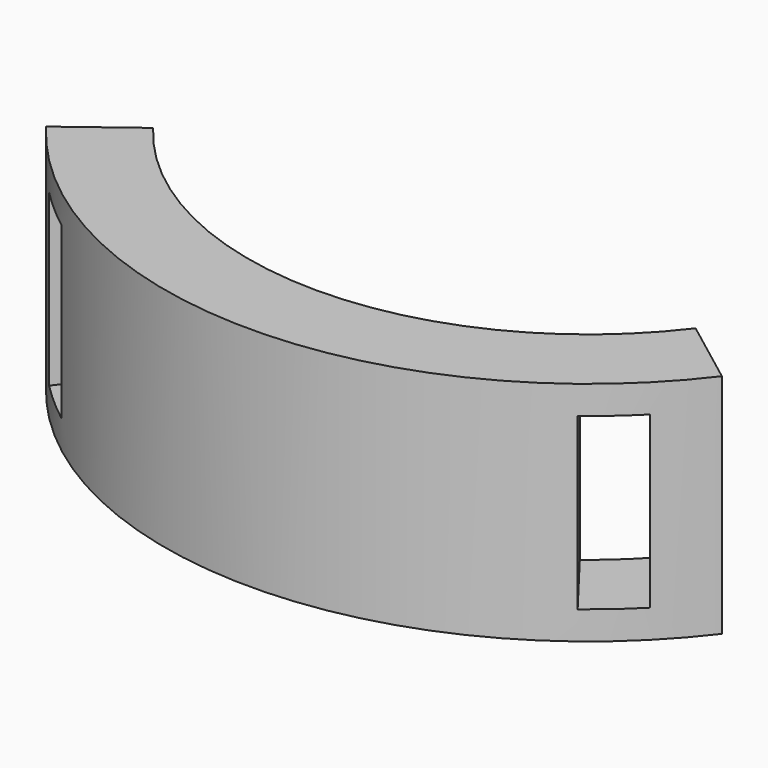
from build123d import *

# Parameters (mm, degrees)
PAD001_DEPTH = 3
SKETCH004_R  = 10.5
POCKET_DEPTH = 5
PAD_DEPTH    = 4


with BuildPart() as body001:
    # Sketch001 → Pad001 (new body, symmetric)
    with BuildSketch(Plane.XY):
        with BuildLine():
            ThreePointArc((8.786596, -8.172865), (11.974307, -0.784838), (9.778199, 6.956064))
            Line((11.923388, 9.101253), (9.778199, 6.956064))
            Line((10.606602, 10.606602), (11.923388, 9.101253))
            Line((8.485281, 8.485281), (10.606602, 10.606602))
            ThreePointArc((8.485281, 8.485281), (0, 12), (-8.485281, 8.485281))
            Line((-8.485281, 8.485281), (-10.606602, 10.606602))
            Line((-10.606602, 10.606602), (-11.923388, 9.101253))
            Line((-11.923388, 9.101253), (-9.778199, 6.956064))
            ThreePointArc((-9.778199, 6.956064), (-11.974307, -0.784838), (-8.786596, -8.172865))
            Line((-8.786596, -8.172865), (-10.63343, -10.579705))
            Line((-10.63343, -10.579705), (-9.131421, -11.9003))
            Line((0, 0), (-9.131421, -11.9003))
            Line((0, 0), (9.131421, -11.9003))
            Line((9.131421, -11.9003), (10.63343, -10.579705))
            Line((10.63343, -10.579705), (8.786596, -8.172865))
        make_face()
    extrude(amount=PAD001_DEPTH, both=True)

    # Sketch004 → Pocket (cut)
    with BuildSketch(Plane.XY.offset(2.5)):
        Circle(SKETCH004_R)
    extrude(amount=-POCKET_DEPTH, mode=Mode.SUBTRACT)


with BuildPart() as body:
    # Sketch → Pad (new body, symmetric)
    with BuildSketch(Plane.XY):
        with BuildLine():
            ThreePointArc((-9.567984, -7.242492), (0, -12), (9.567984, -7.242492))
            Line((11.920113, -9.022938), (9.567984, -7.242492))
            ThreePointArc((-11.920113, -9.022938), (0, -14.95), (11.920113, -9.022938))
            Line((-11.920113, -9.022938), (-9.567984, -7.242492))
        make_face()
    extrude(amount=PAD_DEPTH, both=True)

    # Boolean: cut Body001
    add(body001.part, mode=Mode.SUBTRACT)


solid = body.part
